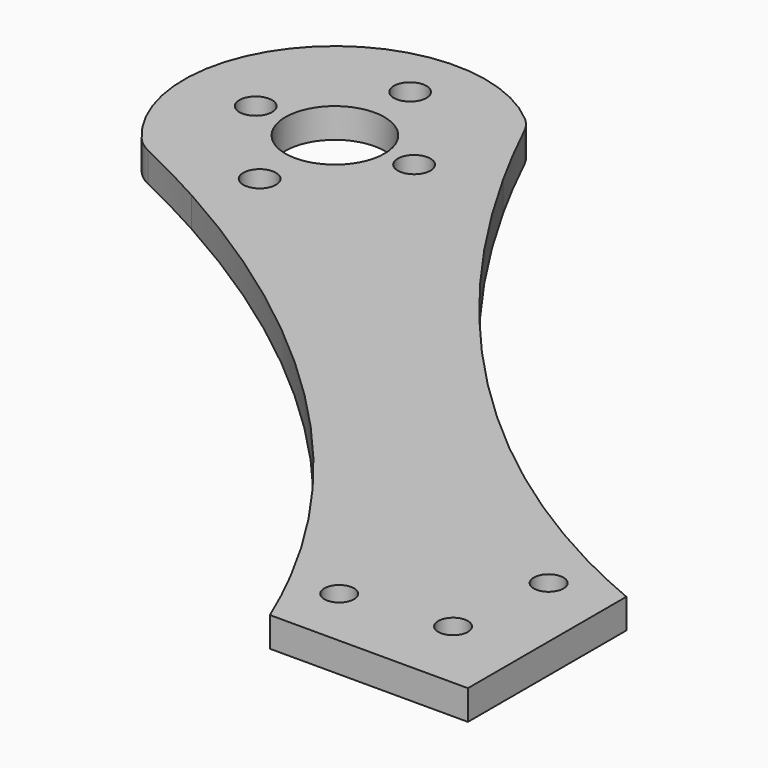
from build123d import *

# Parameters (mm, degrees)
F0_R     = 1.5
F0_R_2   = 1.65
F0_R_3   = 5
F1_DEPTH = 3
F2_R     = 5


with BuildPart() as f1:
    # F0 (on Top) → F1 (new body)
    with BuildSketch(Plane.XY):
        with BuildLine():
            add(Edge.make_bspline(
                [(-52.118164, 69.593788), (-40.285984, 48.277058), (-22.257566, 29.243172), (0, 20)],
                knots=[9.256523, 9.256523, 9.256523, 9.256523, 80.865454, 80.865454, 80.865454, 80.865454], degree=3))
            ThreePointArc((-52.118164, 69.593788), (-51.973476, 68.388311), (-51.925144, 67.175144))
            ThreePointArc((-51.925144, 67.175144), (-57.28378, 55.568103), (-69.593788, 52.118164))
            add(Edge.make_bspline(
                [(-69.593788, 52.118164), (-48.277057, 40.285984), (-29.243172, 22.257566), (-20, 0)],
                knots=[9.256523, 9.256523, 9.256523, 9.256523, 80.865454, 80.865454, 80.865454, 80.865454], degree=3))
            Line((-20, 0), (0, 0))
            Line((0, 0), (0, 20))
        make_face()
        with Locations((-18, 6.25)):
            Circle(F0_R, mode=Mode.SUBTRACT)
        with Locations((-7.5, 7.5)):
            Circle(F0_R, mode=Mode.SUBTRACT)
        with Locations((-6.25, 18)):
            Circle(F0_R, mode=Mode.SUBTRACT)
        with BuildLine():
            add(Edge.make_bspline(
                [(-56.391766, 77.958523), (-55.0736, 75.142944), (-53.64765, 72.349293), (-52.118164, 69.593788)],
                knots=[0, 0, 0, 0, 9.256523, 9.256523, 9.256523, 9.256523], degree=3))
            ThreePointArc((-56.391766, 77.958523), (-77.958523, 77.958523), (-77.958523, 56.391766))
            add(Edge.make_bspline(
                [(-77.958523, 56.391766), (-75.142944, 55.0736), (-72.349293, 53.647649), (-69.593788, 52.118164)],
                knots=[0, 0, 0, 0, 9.256523, 9.256523, 9.256523, 9.256523], degree=3))
            ThreePointArc((-69.593788, 52.118164), (-57.28378, 55.568103), (-51.925144, 67.175144))
            ThreePointArc((-51.925144, 67.175144), (-51.973476, 68.388311), (-52.118164, 69.593788))
        make_face()
        with Locations((-67.175142, 57.675142)):
            Circle(F0_R_2, mode=Mode.SUBTRACT)
        with Locations((-75.175142, 67.175142)):
            Circle(F0_R_2, mode=Mode.SUBTRACT)
        with Locations((-67.175142, 67.175142)):
            Circle(F0_R_3, mode=Mode.SUBTRACT)
        with Locations((-67.175142, 76.675142)):
            Circle(F0_R_2, mode=Mode.SUBTRACT)
        with Locations((-59.175142, 67.175142)):
            Circle(F0_R_2, mode=Mode.SUBTRACT)
    extrude(amount=F1_DEPTH)

    # F2
    f2_edges = [f1.edges().sort_by_distance(p)[0] for p in [
        (-56.391766, 77.958523, 1.5),
        (-77.958523, 56.391766, 1.5),
    ]]
    fillet(f2_edges, radius=F2_R)


solid = f1.part
